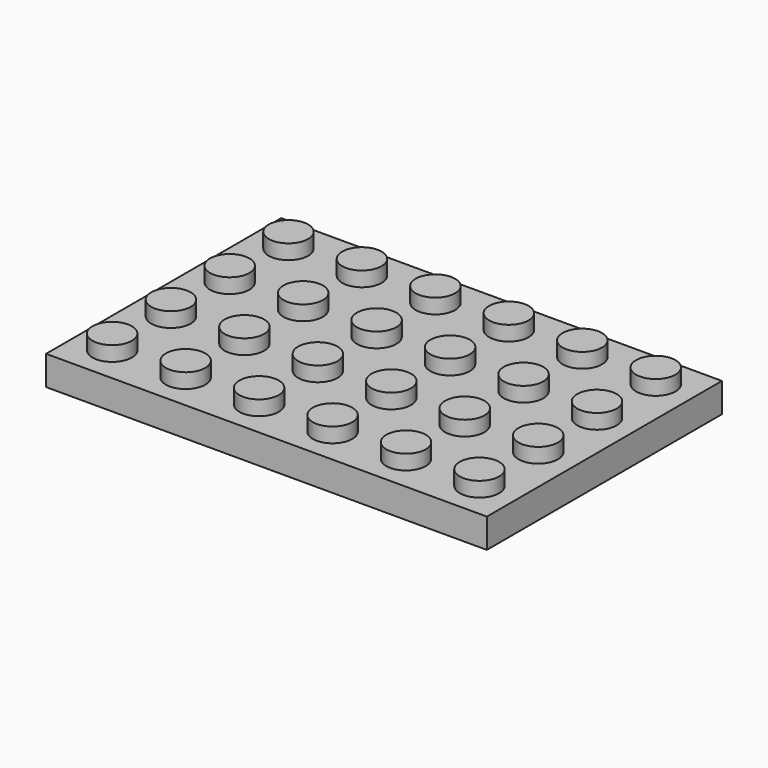
from build123d import *

# Parameters (mm, degrees)
F0_W     = 47.7012
F0_H     = 31.8008
F0_R     = 2.1336
F1_DEPTH = 3.175
F2_DEPTH = 4.7752
F3_T     = -1.6002


with BuildPart() as f1:
    # F0 (on Top) → F1 (new body)
    with BuildSketch(Plane.XY):
        with Locations((-4.3733632303, 8.6500905454)):
            Rectangle(F0_W, F0_H)
        with Locations((-24.2615632303, -3.2625094546)):
            Circle(F0_R, mode=Mode.SUBTRACT)
        with Locations((-16.3113632303, -3.2625094546)):
            Circle(F0_R, mode=Mode.SUBTRACT)
        with Locations((-8.3611632303, -3.2625094546)):
            Circle(F0_R, mode=Mode.SUBTRACT)
        with Locations((-24.2615632303, 4.6876905454)):
            Circle(F0_R, mode=Mode.SUBTRACT)
        with Locations((-16.3113632303, 4.6876905454)):
            Circle(F0_R, mode=Mode.SUBTRACT)
        with Locations((-8.3611632303, 4.6876905454)):
            Circle(F0_R, mode=Mode.SUBTRACT)
        with Locations((-0.4109632303, -3.2625094546)):
            Circle(F0_R, mode=Mode.SUBTRACT)
        with Locations((7.5392367697, -3.2625094546)):
            Circle(F0_R, mode=Mode.SUBTRACT)
        with Locations((15.4894367697, -3.2625094546)):
            Circle(F0_R, mode=Mode.SUBTRACT)
        with Locations((-0.4109632303, 4.6876905454)):
            Circle(F0_R, mode=Mode.SUBTRACT)
        with Locations((7.5392367697, 4.6876905454)):
            Circle(F0_R, mode=Mode.SUBTRACT)
        with Locations((15.4894367697, 4.6876905454)):
            Circle(F0_R, mode=Mode.SUBTRACT)
        with Locations((-24.2615632303, 12.6378905454)):
            Circle(F0_R, mode=Mode.SUBTRACT)
        with Locations((-16.3113632303, 12.6378905454)):
            Circle(F0_R, mode=Mode.SUBTRACT)
        with Locations((-8.3611632303, 12.6378905454)):
            Circle(F0_R, mode=Mode.SUBTRACT)
        with Locations((-24.2615632303, 20.5880905454)):
            Circle(F0_R, mode=Mode.SUBTRACT)
        with Locations((-16.3113632303, 20.5880905454)):
            Circle(F0_R, mode=Mode.SUBTRACT)
        with Locations((-8.3611632303, 20.5880905454)):
            Circle(F0_R, mode=Mode.SUBTRACT)
        with Locations((-0.4109632303, 12.6378905454)):
            Circle(F0_R, mode=Mode.SUBTRACT)
        with Locations((7.5392367697, 12.6378905454)):
            Circle(F0_R, mode=Mode.SUBTRACT)
        with Locations((15.4894367697, 12.6378905454)):
            Circle(F0_R, mode=Mode.SUBTRACT)
        with Locations((-0.4109632303, 20.5880905454)):
            Circle(F0_R, mode=Mode.SUBTRACT)
        with Locations((7.5392367697, 20.5880905454)):
            Circle(F0_R, mode=Mode.SUBTRACT)
        with Locations((15.4894367697, 20.5880905454)):
            Circle(F0_R, mode=Mode.SUBTRACT)
    extrude(amount=F1_DEPTH)

    # F0 (on Top) → F2 (join)
    with BuildSketch(Plane.XY):
        with Locations((-24.2615632303, 20.5880905454)):
            Circle(F0_R)
        with Locations((-16.3113632303, 20.5880905454)):
            Circle(F0_R)
        with Locations((-8.3611632303, 20.5880905454)):
            Circle(F0_R)
        with Locations((-0.4109632303, 20.5880905454)):
            Circle(F0_R)
        with Locations((7.5392367697, 20.5880905454)):
            Circle(F0_R)
        with Locations((15.4894367697, 20.5880905454)):
            Circle(F0_R)
        with Locations((15.4894367697, 12.6378905454)):
            Circle(F0_R)
        with Locations((7.5392367697, 12.6378905454)):
            Circle(F0_R)
        with Locations((-0.4109632303, 12.6378905454)):
            Circle(F0_R)
        with Locations((-8.3611632303, 12.6378905454)):
            Circle(F0_R)
        with Locations((-16.3113632303, 12.6378905454)):
            Circle(F0_R)
        with Locations((-24.2615632303, 12.6378905454)):
            Circle(F0_R)
        with Locations((-24.2615632303, 4.6876905454)):
            Circle(F0_R)
        with Locations((-16.3113632303, 4.6876905454)):
            Circle(F0_R)
        with Locations((-8.3611632303, 4.6876905454)):
            Circle(F0_R)
        with Locations((-0.4109632303, 4.6876905454)):
            Circle(F0_R)
        with Locations((7.5392367697, 4.6876905454)):
            Circle(F0_R)
        with Locations((15.4894367697, 4.6876905454)):
            Circle(F0_R)
        with Locations((15.4894367697, -3.2625094546)):
            Circle(F0_R)
        with Locations((7.5392367697, -3.2625094546)):
            Circle(F0_R)
        with Locations((-0.4109632303, -3.2625094546)):
            Circle(F0_R)
        with Locations((-8.3611632303, -3.2625094546)):
            Circle(F0_R)
        with Locations((-16.3113632303, -3.2625094546)):
            Circle(F0_R)
        with Locations((-24.2615632303, -3.2625094546)):
            Circle(F0_R)
    extrude(amount=F2_DEPTH)

    # F3
    f3_openings = [f1.faces().sort_by_distance(p)[0] for p in [
        (-4.373363, 8.650091, 0),
    ]]
    offset(amount=F3_T, openings=f3_openings, kind=Kind.INTERSECTION)


solid = f1.part
